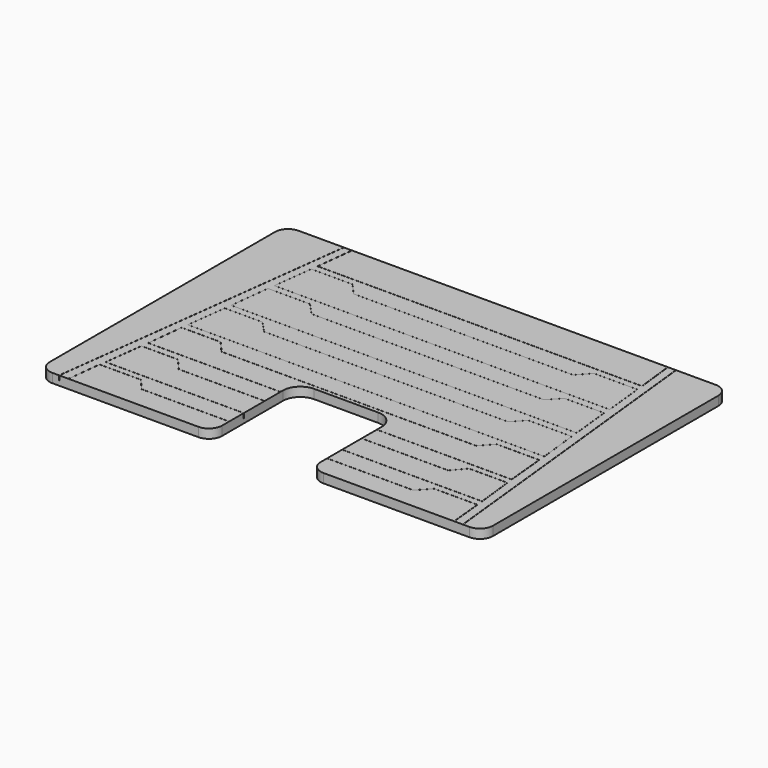
from build123d import *

# Parameters (mm, degrees)
PAD003_DEPTH    = 0.3
POCKET016_DEPTH = 0.15
POCKET017_DEPTH = 0.15


with BuildPart() as part:
    # Sketch017 (on Face1 of Binder002) → Pad003 (new body)
    with BuildSketch(Plane.XY.offset(1.4)):
        with BuildLine():
            Line((6.85, -19.92), (-6.85, -19.92))
            ThreePointArc((-6.85, -19.92), (-7.154056, -20.045944), (-7.28, -20.35))
            Line((-7.28, -20.35), (-7.28, -29.6))
            ThreePointArc((-7.28, -29.6), (-7.154056, -29.904056), (-6.85, -30.03))
            Line((-6.85, -30.03), (-2.05, -30.03))
            ThreePointArc((-2.05, -30.03), (-1.745944, -29.904056), (-1.62, -29.6))
            Line((-1.62, -29.6), (-1.62, -27.1))
            ThreePointArc((-1.05, -26.53), (-1.453051, -26.696949), (-1.62, -27.1))
            Line((-1.05, -26.53), (1.05, -26.53))
            ThreePointArc((1.62, -27.1), (1.453051, -26.696949), (1.05, -26.53))
            Line((1.62, -27.1), (1.62, -29.6))
            ThreePointArc((1.62, -29.6), (1.745944, -29.904056), (2.05, -30.03))
            Line((2.05, -30.03), (6.85, -30.03))
            ThreePointArc((6.85, -30.03), (7.154056, -29.904056), (7.28, -29.6))
            Line((7.28, -29.6), (7.28, -20.35))
            ThreePointArc((7.28, -20.35), (7.154056, -20.045944), (6.85, -19.92))
        make_face()
    extrude(amount=PAD003_DEPTH)

    # Sketch018 (on Face18 of Pad003) → Pocket016 (cut)
    with BuildSketch(Plane.XY.offset(1.7)):
        Polygon((-5.805389, -25.775949), (-5.639688, -24.462816), (-4.401039, -24.462816), (-4.035594, -24.850994), (3.969943, -24.850994), (4.329946, -24.466112), (5.758676, -24.466112), (5.909112, -25.775949), align=None)
        with BuildLine():
            Line((-5.802979, -25.773824), (-5.637815, -24.464941))
            Line((-5.637815, -24.464941), (-4.401957, -24.464941))
            Line((-4.401957, -24.464941), (-4.037141, -24.85245))
            ThreePointArc((-4.035594, -24.853119), (-4.036437, -24.852945), (-4.037141, -24.85245))
            Line((-4.035594, -24.853119), (3.969943, -24.853119))
            ThreePointArc((3.971495, -24.852445), (3.970789, -24.852943), (3.969943, -24.853119))
            Line((3.971495, -24.852445), (4.330868, -24.468237))
            Line((4.330868, -24.468237), (5.756781, -24.468237))
            Line((5.756781, -24.468237), (5.906729, -25.773824))
            Line((5.906729, -25.773824), (-5.802979, -25.773824))
        make_face(mode=Mode.SUBTRACT)
        Polygon((-5.611782, -24.235847), (-5.458087, -22.916178), (-4.07346, -22.916178), (-3.703386, -23.321497), (3.925096, -23.321497), (4.296698, -22.929739), (5.596471, -22.929739), (5.739076, -24.235847), align=None)
        with BuildLine():
            Line((-5.609395, -24.233722), (-5.456195, -22.918303))
            Line((-5.456195, -22.918303), (-4.074397, -22.918303))
            Line((-4.074397, -22.918303), (-3.704955, -23.32293))
            ThreePointArc((-3.703386, -23.323622), (-3.704243, -23.323441), (-3.704955, -23.32293))
            Line((-3.703386, -23.323622), (3.925096, -23.323622))
            ThreePointArc((3.926638, -23.322959), (3.925935, -23.323449), (3.925096, -23.323622))
            Line((3.926638, -23.322959), (4.297611, -22.931864))
            Line((4.297611, -22.931864), (5.594566, -22.931864))
            Line((5.594566, -22.931864), (5.736707, -24.233722))
            Line((5.736707, -24.233722), (-5.609395, -24.233722))
        make_face(mode=Mode.SUBTRACT)
        with BuildLine():
            ThreePointArc((5.278392, -19.920292), (5.280655, -19.917445), (5.283502, -19.919708))
            Line((5.425092, -21.157059), (5.283502, -19.919708))
            ThreePointArc((5.425092, -21.157059), (5.424456, -21.159063), (5.422537, -21.159922))
            Line((-5.235312, -21.159922), (5.422537, -21.159922))
            ThreePointArc((-5.235312, -21.159922), (-5.237231, -21.159063), (-5.237867, -21.157059))
            Line((-5.096422, -19.919708), (-5.237867, -21.157059))
            ThreePointArc((-5.096422, -19.919708), (-5.093575, -19.917445), (-5.091312, -19.920292))
            Line((-5.091312, -19.920292), (-5.23243, -21.15478))
            Line((-5.23243, -21.15478), (5.419655, -21.15478))
            Line((5.419655, -21.15478), (5.278392, -19.920292))
        make_face()
        with BuildLine():
            Line((-6.20154, -26.660319), (-5.35883, -19.920319))
            ThreePointArc((-5.363934, -19.919681), (-5.361063, -19.917448), (-5.35883, -19.920319))
            Line((-6.206644, -26.659681), (-5.363934, -19.919681))
            Line((-6.627999, -30.029681), (-6.206644, -26.659681))
            ThreePointArc((-6.622895, -30.030319), (-6.625766, -30.032552), (-6.627999, -30.029681))
            Line((-6.622895, -30.030319), (-6.20154, -26.660319))
        make_face()
        with BuildLine():
            ThreePointArc((6.637301, -30.029725), (6.635019, -30.032557), (6.632187, -30.030275))
            Line((5.907999, -23.290275), (6.632187, -30.030275))
            Line((5.545904, -19.920275), (5.907999, -23.290275))
            ThreePointArc((5.545904, -19.920275), (5.548186, -19.917443), (5.551018, -19.919725))
            Line((5.551018, -19.919725), (5.913112, -23.289725))
            Line((5.913112, -23.289725), (6.637301, -30.029725))
        make_face()
        with BuildLine():
            Line((4.017031, -21.376635), (3.651413, -21.776516))
            Line((3.651413, -21.776516), (-3.557706, -21.776516))
            Line((-3.557706, -21.776516), (-3.907162, -21.381039))
            ThreePointArc((-3.908754, -21.380321), (-3.907881, -21.380509), (-3.907162, -21.381039))
            Line((-3.908754, -21.380321), (-5.263955, -21.380321))
            ThreePointArc((-5.266064, -21.382184), (-5.265362, -21.380854), (-5.263955, -21.380321))
            Line((-5.266064, -21.382184), (-5.428539, -22.688762))
            ThreePointArc((-5.42643, -22.691149), (-5.428022, -22.690431), (-5.428539, -22.688762))
            Line((-5.42643, -22.691149), (5.583467, -22.691149))
            ThreePointArc((5.58558, -22.688801), (5.585046, -22.690445), (5.583467, -22.691149))
            Line((5.58558, -22.688801), (5.446926, -21.377846))
            ThreePointArc((5.444813, -21.375944), (5.446234, -21.37649), (5.446926, -21.377846))
            Line((5.444813, -21.375944), (4.018599, -21.375944))
            ThreePointArc((4.017031, -21.376635), (4.017742, -21.376125), (4.018599, -21.375944))
        make_face()
        Polygon((-5.263955, -21.382446), (-5.42643, -22.689024), (5.583467, -22.689024), (5.444813, -21.378069), (4.018599, -21.378069), (3.652349, -21.778641), (-3.558664, -21.778641), (-3.908754, -21.382446), align=None, mode=Mode.SUBTRACT)
        with BuildLine():
            Line((6.05133, -27.294319), (5.926989, -26.00775))
            ThreePointArc((5.924874, -26.005829), (5.926302, -26.006381), (5.926989, -26.00775))
            Line((5.924874, -26.005829), (4.530369, -26.005829))
            ThreePointArc((4.528804, -26.006517), (4.529514, -26.006009), (4.530369, -26.005829))
            Line((4.528804, -26.006517), (4.167048, -26.400327))
            Line((4.167048, -26.400327), (-4.194975, -26.400327))
            Line((-4.194975, -26.400327), (-4.547553, -25.994782))
            ThreePointArc((-4.549156, -25.994051), (-4.548275, -25.994243), (-4.547553, -25.994782))
            Line((-4.549156, -25.994051), (-5.832309, -25.994051))
            ThreePointArc((-5.834421, -25.995944), (-5.833727, -25.994594), (-5.832309, -25.994051))
            Line((-5.834421, -25.995944), (-5.966539, -27.200223))
            ThreePointArc((-5.964427, -27.20258), (-5.966009, -27.201873), (-5.966539, -27.200223))
            Line((-5.964427, -27.20258), (-1.62, -27.20258))
            ThreePointArc((-1.62, -27.19833), (-1.617875, -27.200455), (-1.62, -27.20258))
            Line((-5.962056, -27.19833), (-1.62, -27.19833))
            Line((-5.830405, -25.998301), (-5.962056, -27.19833))
            Line((-4.550124, -25.998301), (-5.830405, -25.998301))
            Line((-4.197546, -26.403846), (-4.550124, -25.998301))
            ThreePointArc((-4.195943, -26.404577), (-4.196824, -26.404385), (-4.197546, -26.403846))
            Line((4.167981, -26.404577), (-4.195943, -26.404577))
            ThreePointArc((4.169546, -26.403889), (4.168836, -26.404397), (4.167981, -26.404577))
            Line((4.531302, -26.010079), (4.169546, -26.403889))
            Line((5.922945, -26.010079), (4.531302, -26.010079))
            Line((6.046875, -27.292398), (5.922945, -26.010079))
            Line((1.62, -27.292398), (6.046875, -27.292398))
            ThreePointArc((1.62, -27.296648), (1.617875, -27.294523), (1.62, -27.292398))
            Line((1.62, -27.296648), (6.049215, -27.296648))
            ThreePointArc((6.05133, -27.294319), (6.050788, -27.295951), (6.049215, -27.296648))
        make_face()
        with BuildLine():
            Line((-4.44123, -27.851481), (-1.62, -27.851481))
            ThreePointArc((-1.62, -27.847231), (-1.617875, -27.849356), (-1.62, -27.851481))
            Line((-4.440263, -27.847231), (-1.62, -27.847231))
            Line((-4.797113, -27.437607), (-4.440263, -27.847231))
            ThreePointArc((-4.798715, -27.436878), (-4.797835, -27.437069), (-4.797113, -27.437607))
            Line((-5.997046, -27.436878), (-4.798715, -27.436878))
            ThreePointArc((-5.999154, -27.438739), (-5.998452, -27.43741), (-5.997046, -27.436878))
            Line((-6.157945, -28.707038), (-5.999154, -27.438739))
            ThreePointArc((-6.155837, -28.709427), (-6.15743, -28.708708), (-6.157945, -28.707038))
            Line((-1.62, -28.709427), (-6.155837, -28.709427))
            ThreePointArc((-1.62, -28.705177), (-1.617875, -28.707302), (-1.62, -28.709427))
            Line((-1.62, -28.705177), (-6.15343, -28.705177))
            Line((-6.15343, -28.705177), (-5.995171, -27.441128))
            Line((-5.995171, -27.441128), (-4.799682, -27.441128))
            Line((-4.799682, -27.441128), (-4.442832, -27.850752))
            ThreePointArc((-4.44123, -27.851481), (-4.44211, -27.85129), (-4.442832, -27.850752))
        make_face()
        with BuildLine():
            ThreePointArc((4.467048, -27.919763), (4.466323, -27.920311), (4.465434, -27.920506))
            Line((4.465434, -27.920506), (1.62, -27.920506))
            ThreePointArc((1.62, -27.920506), (1.617875, -27.918381), (1.62, -27.916256))
            Line((4.464456, -27.916256), (1.62, -27.916256))
            Line((4.817033, -27.504308), (4.464456, -27.916256))
            ThreePointArc((4.817033, -27.504308), (4.817758, -27.50376), (4.818647, -27.503565))
            Line((6.080124, -27.503565), (4.818647, -27.503565))
            ThreePointArc((6.080124, -27.503565), (6.081539, -27.504105), (6.082235, -27.505451))
            Line((6.219636, -28.717948), (6.082235, -27.505451))
            ThreePointArc((6.219636, -28.717948), (6.21911, -28.719602), (6.217525, -28.720312))
            Line((1.62, -28.720312), (6.217525, -28.720312))
            ThreePointArc((1.62, -28.720312), (1.617875, -28.718187), (1.62, -28.716062))
            Line((1.62, -28.716062), (6.215146, -28.716062))
            Line((6.215146, -28.716062), (6.078226, -27.507815))
            Line((6.078226, -27.507815), (4.819625, -27.507815))
            Line((4.819625, -27.507815), (4.467048, -27.919763))
        make_face()
        with BuildLine():
            ThreePointArc((4.45363, -29.338785), (4.452921, -29.33929), (4.452069, -29.339468))
            Line((4.452069, -29.339468), (1.632897, -29.339468))
            ThreePointArc((1.632897, -29.339468), (1.630772, -29.337343), (1.632897, -29.335218))
            Line((4.451139, -29.335218), (1.632897, -29.335218))
            Line((4.818064, -28.938137), (4.451139, -29.335218))
            ThreePointArc((4.818064, -28.938137), (4.818773, -28.937632), (4.819625, -28.937454))
            Line((6.242013, -28.937454), (4.819625, -28.937454))
            ThreePointArc((6.242013, -28.937454), (6.243441, -28.938006), (6.244128, -28.939374))
            Line((6.349863, -30.029795), (6.244128, -28.939374))
            ThreePointArc((6.349863, -30.029795), (6.347953, -30.032115), (6.345633, -30.030205))
            Line((6.345633, -30.030205), (6.240084, -28.941704))
            Line((6.240084, -28.941704), (4.820555, -28.941704))
            Line((4.820555, -28.941704), (4.45363, -29.338785))
        make_face()
        with BuildLine():
            ThreePointArc((-4.839809, -28.909138), (-4.83893, -28.909329), (-4.838209, -28.909865))
            Line((-4.838209, -28.909865), (-4.491429, -29.306904))
            Line((-4.491429, -29.306904), (-1.62, -29.306904))
            ThreePointArc((-1.62, -29.306904), (-1.617875, -29.309029), (-1.62, -29.311154))
            Line((-4.492394, -29.311154), (-1.62, -29.311154))
            ThreePointArc((-4.492394, -29.311154), (-4.493273, -29.310963), (-4.493994, -29.310427))
            Line((-4.840774, -28.913388), (-4.493994, -29.310427))
            Line((-6.192323, -28.913388), (-4.840774, -28.913388))
            Line((-6.315472, -30.030233), (-6.192323, -28.913388))
            ThreePointArc((-6.315472, -30.030233), (-6.317817, -30.032112), (-6.319696, -30.029767))
            Line((-6.319696, -30.029767), (-6.196338, -28.91103))
            ThreePointArc((-6.196338, -28.91103), (-6.195644, -28.90968), (-6.194226, -28.909138))
            Line((-6.194226, -28.909138), (-4.839809, -28.909138))
        make_face()
    extrude(amount=-POCKET016_DEPTH, mode=Mode.SUBTRACT)

    # Sketch019 (on Face4 of Pocket016) → Pocket017 (cut)
    with BuildSketch(Plane.XY.offset(1.7)):
        with BuildLine():
            ThreePointArc((1.634385, -29.335236), (1.63638, -29.337231), (1.634385, -29.339226))
            Line((1.634385, -29.339226), (1.627324, -29.339226))
            Line((1.627324, -29.339226), (1.613203, -29.339226))
            ThreePointArc((1.613203, -29.339226), (1.611208, -29.337231), (1.613203, -29.335236))
            Line((1.627324, -29.335236), (1.613203, -29.335236))
            Line((1.634385, -29.335236), (1.627324, -29.335236))
        make_face()
    extrude(amount=-POCKET017_DEPTH, mode=Mode.SUBTRACT)


solid = part.part
